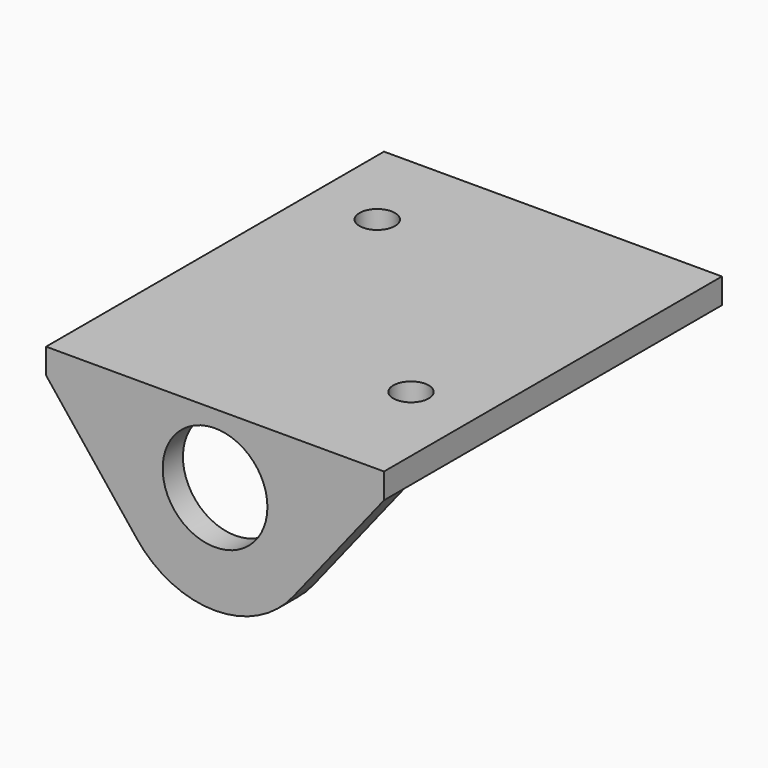
from build123d import *

# Parameters (mm, degrees)
F0_W     = 20
F0_H     = 25
F0_R     = 1.05
F1_DEPTH = 1.5
F2_W     = 20
F2_H     = 1.5
F3_DEPTH = 9
F4_R     = 3.1
F5_DEPTH = 30


with BuildPart() as f1:
    # F0 (on Top) → F1 (new body)
    with BuildSketch(Plane.XY):
        Rectangle(F0_W, F0_H)
        with Locations((6, -5.5)):
            Circle(F0_R, mode=Mode.SUBTRACT)
        with Locations((-6, 7)):
            Circle(F0_R, mode=Mode.SUBTRACT)
    extrude(amount=-F1_DEPTH)

    # F2 (on face) → F3 (join)
    with BuildSketch(Plane(origin=(0, 0, -1.5), x_dir=(1, 0, 0), z_dir=(0, 0, -1))):
        with Locations((0, 11.75)):
            Rectangle(F2_W, F2_H)
    extrude(amount=F3_DEPTH)

    # F4 (on face) → F5 (cut)
    with BuildSketch(Plane.XZ.offset(12.5)):
        with Locations((0, -4.1)):
            Circle(F4_R)
        with BuildLine():
            Line((-4.618965, -8.270854), (-10, -1.5))
            Line((-10, -1.5), (-10, -10.5))
            Line((-10, -10.5), (0, -10.5))
            ThreePointArc((0, -10.5), (-2.564368, -9.913569), (-4.618965, -8.270854))
        make_face()
        with BuildLine():
            ThreePointArc((4.618965, -8.270854), (2.564368, -9.913569), (0, -10.5))
            Line((0, -10.5), (10, -10.5))
            Line((10, -10.5), (10, -1.5))
            Line((10, -1.5), (4.618965, -8.270854))
        make_face()
    extrude(amount=-F5_DEPTH, mode=Mode.SUBTRACT)


solid = f1.part
